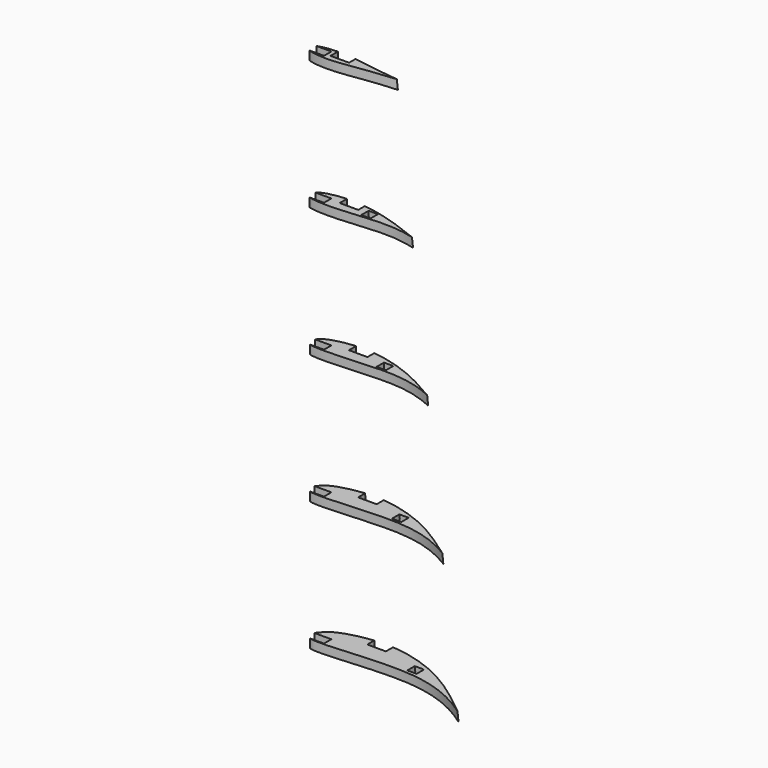
from build123d import *

# Parameters (mm, degrees)
F7_DEPTH       = 200
F15_W          = 115.6253740191
F15_H          = 41.25
F16_DEPTH      = 100
F16_DEPTH_BACK = 100
F14_W          = 3.175
F14_H          = 3.175
F17_W          = 3.175
F17_H          = 3.175
F20_DEPTH      = 25
F21_W          = 3.175
F21_H          = 3.175
F22_DEPTH      = 25
F23_W          = 3.175
F23_H          = 3.175
F24_DEPTH      = 25
F25_W          = 3.175
F25_H          = 3.175
F26_DEPTH      = 25
F27_W          = 3.175
F27_H          = 3.175
F28_DEPTH      = 25


with BuildPart() as f5:
    # F4 (on offset) → F5 section 0
    with BuildSketch(Plane.XY.offset(180)):
        with BuildLine():
            add(Edge.make_bspline(
                [(0, 0), (0.1124903678, 0.2223926809), (0.3318121818, 0.6559903937), (0.7826242303, 1.2198034581), (1.4650291588, 1.8595172082), (8.5667428116, 3.3457171674), (20.978996165, 1.0607065124), (27.1887925823, 0.3307477048), (30.00248, 0)],
                knots=[0, 0, 0, 0, 0.07331715, 0.1429460198, 0.2166144695, 0.43420431, 0.7436353615, 1, 1, 1, 1], degree=3))
            add(Edge.make_bspline(
                [(0, 0), (0.1093151934, -0.2239294767), (0.3252538084, -0.6662744022), (0.8044417859, -1.2652888902), (1.7620937806, -1.8964133305), (8.5253996623, -3.0873561341), (21.088259239, -0.8045310111), (27.2312375139, -0.2501116563), (30.00248, 0)],
                knots=[0, 0, 0, 0, 0.0729079087, 0.1440205367, 0.2263050766, 0.4387992359, 0.7468290899, 1, 1, 1, 1], degree=3))
        make_face()
    # F1 (on Top) → F5 section 1
    with BuildSketch(Plane.XY):
        with BuildLine():
            add(Edge.make_bspline(
                [(0, 0), (-0.0007086226, 0.2945174567), (-0.0026697261, 1.1095906066), (2.1708221, 3.7550234984), (5.4093385096, 6.2520690684), (20.0378803076, 10.1720044404), (41.4384257299, 4.4754718365), (53.1941410326, -5.165248507), (59.132745, -10.035426)],
                knots=[0, 0, 0, 0, 0.0553832055, 0.1532722856, 0.2644610451, 0.4728057374, 0.7336786526, 1, 1, 1, 1], degree=3))
            add(Edge.make_bspline(
                [(0, 0), (0.0394507608, -0.2166558386), (0.1191668615, -0.6552553762), (0.7405631315, -1.1891045515), (3.3560879008, -2.8101015637), (30.3976440966, 0.7569608996), (47.882065177, -1.9898707978), (59.132745, -10.035426)],
                knots=[0, 0, 0, 0, 0.0575953978, 0.1169920648, 0.2252654706, 0.5834888113, 1, 1, 1, 1], degree=3))
        make_face()
    loft()

    # F6 (on Top) → F7 (cut)
    with BuildSketch(Plane.XY):
        Polygon((6.35, -1.5875), (6.35, 0), (6.35, 1.5875), (-1.8928654026, 1.5875), (-1.8928654026, -1.5875), align=None)
    extrude(amount=F7_DEPTH, mode=Mode.SUBTRACT)

    # F12: sweep along a path in F11
    with BuildLine(Plane(origin=(15.8384655665, 0, 0.7163053718), x_dir=(0, -1, 0), z_dir=(-0.9989788851, 0, -0.0451794992))) as f12_path:
        Line((0.5200000014, 179.4669510077), (-5.3006285359, -0.7170375495))
    # F8 (on face) → F12 (sweep, cut)
    with BuildSketch(Plane(origin=(0, 0, 0), x_dir=(1, 0, 0), z_dir=(0, 0, -1))):
        Polygon((22.2208609638, -5.3006285359), (19.0458609638, -5.3006285359), (15.8708609638, -5.3006285359), (15.8708609638, -8.4756285359), (22.2208609638, -8.4756285359), align=None)
    sweep(path=f12_path.line, mode=Mode.SUBTRACT)

    # F9 (on face) → F13 section 0
    with BuildSketch(Plane.XY.offset(180)):
        Polygon((7.7302386053, -0.5200000014), (10.9052386053, -0.5200000014), (14.0802386053, -0.5200000014), (14.0802386053, 2.6549999986), (7.7302386053, 2.6549999986), align=None)
    # F8 (on face) → F13 section 1
    with BuildSketch(Plane(origin=(0, 0, 0), x_dir=(1, 0, 0), z_dir=(0, 0, -1))):
        Polygon((22.2208609638, -5.3006285359), (19.0458609638, -5.3006285359), (15.8708609638, -5.3006285359), (15.8708609638, -8.4756285359), (22.2208609638, -8.4756285359), align=None)
    loft(mode=Mode.SUBTRACT)

    # F15 (on Front) → F16 (cut, two sides)
    with BuildSketch(Plane.XZ) as f16_sk:
        with Locations((57.8126870096, 23.625)):
            Rectangle(F15_W, F15_H)
        with Locations((57.8126870096, 67.875)):
            Rectangle(F15_W, F15_H)
        with Locations((57.8126870096, 112.125)):
            Rectangle(F15_W, F15_H)
        with Locations((57.8126870096, 156.375)):
            Rectangle(F15_W, F15_H)
    extrude(amount=-F16_DEPTH, mode=Mode.SUBTRACT)
    extrude(f16_sk.sketch, amount=F16_DEPTH_BACK, mode=Mode.SUBTRACT)

    # F14 (on face) → F18 section 0
    with BuildSketch(Plane(origin=(0, 0, 0), x_dir=(1, 0, 0), z_dir=(0, 0, -1))):
        with Locations((35.3637385607, -1.802552123)):
            Rectangle(F14_W, F14_H)
    # F17 (on face) → F18 section 1
    with BuildSketch(Plane.XY.offset(135.75)):
        with Locations((20.151221329, 0.6489214912)):
            Rectangle(F17_W, F17_H)
    loft(mode=Mode.SUBTRACT)

    # F19 (on face) → F20 (cut)
    with BuildSketch(Plane.XY.offset(180)):
        Polygon((7.7302386053, 3.46631906), (7.7302386053, 2.6318796071), (7.7302386053, -0.5200000014), (14.0802386053, -0.5200000014), (14.0802386053, 3.46631906), align=None)
    extrude(amount=-F20_DEPTH, mode=Mode.SUBTRACT)

    # F21 (on face) → F22 (cut)
    with BuildSketch(Plane.XY.offset(135.75)):
        Polygon((9.7314749351, 5.3107445128), (9.7314749351, 4.0237242623), (9.7314749351, 0.910904514), (16.0814749351, 0.910904514), (16.0814749351, 5.3107445128), align=None)
        with Locations((20.151221329, 0.6489214912)):
            Rectangle(F21_W, F21_H)
    extrude(amount=-F22_DEPTH, mode=Mode.SUBTRACT)

    # F23 (on face) → F24 (cut)
    with BuildSketch(Plane.XY.offset(91.5)):
        Polygon((11.7327112649, 7.9213790596), (11.7327112649, 5.4163936702), (11.7327112649, 2.3418090294), (18.0827112649, 2.3418090294), (18.0827112649, 7.9213790596), align=None)
        with Locations((25.1099976642, 1.0249668353)):
            Rectangle(F23_W, F23_H)
    extrude(amount=-F24_DEPTH, mode=Mode.SUBTRACT)

    # F25 (on face) → F26 (cut)
    with BuildSketch(Plane.XY.offset(47.25)):
        Polygon((13.7339475947, 9.4734411687), (13.7339475947, 6.8095458373), (13.7339475947, 3.7727135448), (20.0839475947, 3.7727135448), (20.0839475947, 9.4734411687), align=None)
        with Locations((30.0687739994, 1.4010121793)):
            Rectangle(F25_W, F25_H)
    extrude(amount=-F26_DEPTH, mode=Mode.SUBTRACT)

    # F27 (on face) → F28 (cut)
    with BuildSketch(Plane.XY.offset(3)):
        Polygon((15.7351839245, 10.2555826306), (15.7351839245, 8.2030076881), (15.7351839245, 5.2036180603), (22.0851839245, 5.2036180603), (22.0851839245, 10.2555826306), align=None)
        with Locations((35.0275503346, 1.7770575234)):
            Rectangle(F27_W, F27_H)
    extrude(amount=-F28_DEPTH, mode=Mode.SUBTRACT)


solid = f5.part
